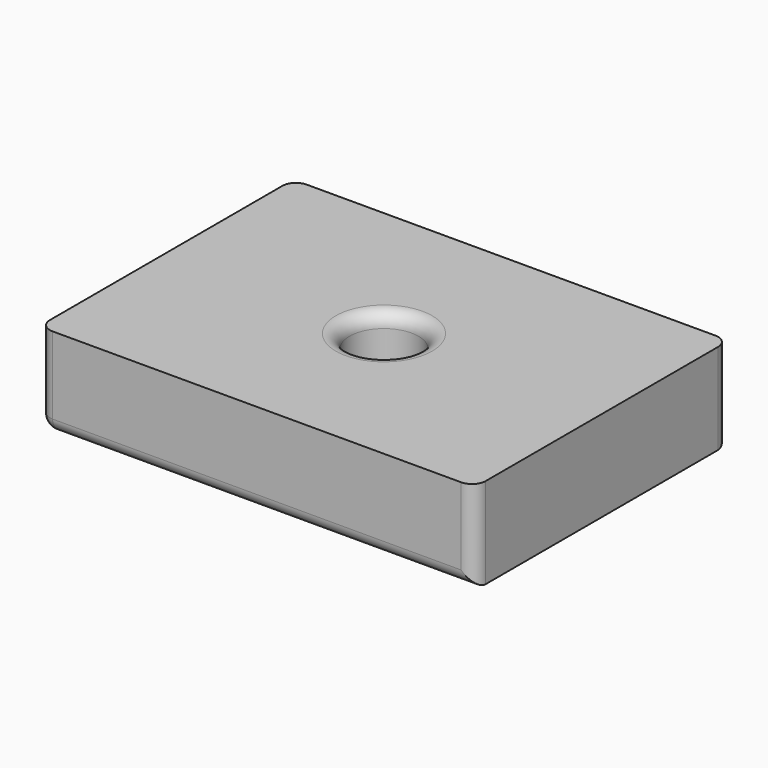
from build123d import *

# Parameters (mm, degrees)
BOX006_W        = 48
BOX006_H        = 35
BOX006_DEPTH    = 10
SKETCH008_R     = 3.8
POCKET001_DEPTH = 10
FILLET_R        = 1.5


with BuildPart() as part:
    # Box006 → Box006 (new body)
    with BuildSketch(Plane(origin=(-24, -22, -15), x_dir=(1, 0, 0), z_dir=(0, 0, 1))):
        with Locations((24, 17.5)):
            Rectangle(BOX006_W, BOX006_H)
    extrude(amount=BOX006_DEPTH)

    # Sketch008 → Pocket001 (cut)
    with BuildSketch(Plane(origin=(-24, -22, -15), x_dir=(1, 0, 0), z_dir=(0, 0, -1))):
        with Locations((24, -17.5)):
            Circle(SKETCH008_R)
    extrude(amount=-POCKET001_DEPTH, mode=Mode.SUBTRACT)

    # Fillet
    fillet_edges = [part.edges().sort_by_distance(p)[0] for p in [
        (-24, 13, -10),
        (-24, -22, -10),
        (-24, -4.5, -15),
        (0, -22, -15),
        (-3.8, -4.5, -5),
        (24, 13, -10),
        (0, 13, -15),
        (24, -22, -10),
    ]]
    fillet(fillet_edges, radius=FILLET_R)


solid = part.part
